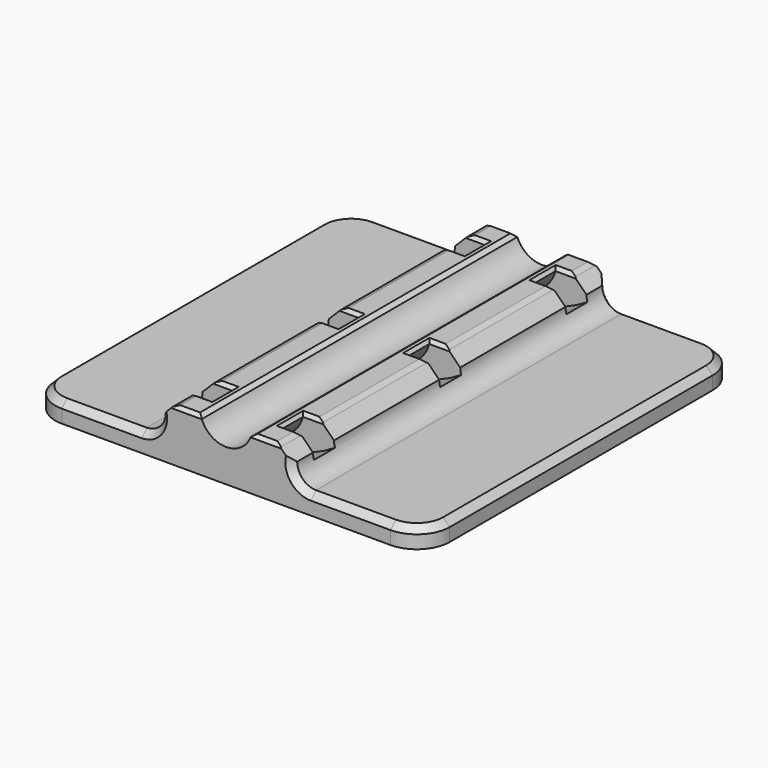
from build123d import *

# Parameters (mm, degrees)
PAD_DEPTH              = 30
SKETCH001_R            = 19
SKETCH001_R_2          = 5.5
POCKET_DEPTH           = 2
LINEARPATTERN_COUNT    = 2
LINEARPATTERN_PITCH    = 24
LINEARPATTERN001_COUNT = 2
LINEARPATTERN001_PITCH = 24
FILLET_R               = 5
CHAMFER_SIZE           = 0.5
CHAMFER001_SIZE        = 1


with BuildPart() as part:
    # Sketch → Pad (new body, symmetric)
    with BuildSketch(Plane.XZ):
        with BuildLine():
            ThreePointArc((-3.872983, 5), (0, 2), (3.872983, 5))
            Line((3.872983, 5), (7.872983, 5))
            Line((7.872983, 5), (9.994304, 2.87868))
            ThreePointArc((9.994304, 2.87868), (10.837449, 0.843146), (12.872983, 0))
            Line((30, 0), (12.872983, 0))
            Line((30, -3), (30, 0))
            Line((-30, -3), (30, -3))
            Line((-30, 0), (-30, -3))
            Line((-12.872983, 0), (-30, 0))
            ThreePointArc((-12.872983, 0), (-10.837449, 0.843146), (-9.994304, 2.87868))
            Line((-7.872983, 5), (-9.994304, 2.87868))
            Line((-3.872983, 5), (-7.872983, 5))
        make_face()
    extrude(amount=PAD_DEPTH, both=True)

    # Sketch001 → Pocket (cut, symmetric)
    with BuildSketch(Plane.XZ):
        with Locations((0, 18)):
            Circle(SKETCH001_R)
        with Locations((0, 6)):
            Circle(SKETCH001_R_2, mode=Mode.SUBTRACT)
    pocket = extrude(amount=POCKET_DEPTH, both=True, mode=Mode.SUBTRACT)

    # LinearPattern: Pocket ×2
    with Locations(*[(0, -i * LINEARPATTERN_PITCH, 0) for i in range(1, LINEARPATTERN_COUNT)]):
        add(pocket, mode=Mode.SUBTRACT)

    # LinearPattern001: Pocket ×2
    with Locations(*[(0, i * LINEARPATTERN001_PITCH, 0) for i in range(1, LINEARPATTERN001_COUNT)]):
        add(pocket, mode=Mode.SUBTRACT)

    # Fillet
    fillet_edges = [part.edges().sort_by_distance(p)[0] for p in [
        (30, -30, -1.5),
        (30, 30, -1.5),
        (-30, -30, -1.5),
        (-30, 30, -1.5),
    ]]
    fillet(fillet_edges, radius=FILLET_R)

    # Chamfer
    chamfer_edges = [part.edges().sort_by_distance(p)[0] for p in [
        (-5.872983, 30, 5),
        (-7.872983, 28, 5),
        (-6.640655, 26, 5),
        (-5.408327, 24, 5),
        (-6.640655, 22, 5),
        (-7.872983, 12, 5),
        (-6.640655, 2, 5),
        (-5.408327, 0, 5),
        (-6.640655, -2, 5),
        (-7.872983, -12, 5),
        (-6.640655, -22, 5),
        (-5.408327, -24, 5),
        (-6.640655, -26, 5),
        (-7.872983, -28, 5),
        (-5.872983, -30, 5),
        (-3.872983, 0, 5),
        (5.872983, 30, 5),
        (7.872983, 28, 5),
        (6.640655, 26, 5),
        (5.408327, 24, 5),
        (6.640655, 22, 5),
        (7.872983, 12, 5),
        (6.640655, 2, 5),
        (5.408327, 0, 5),
        (6.640655, -2, 5),
        (7.872983, -12, 5),
        (6.640655, -22, 5),
        (5.408327, -24, 5),
        (6.640655, -26, 5),
        (7.872983, -28, 5),
        (5.872983, -30, 5),
        (3.872983, 0, 5),
    ]]
    chamfer(chamfer_edges, length=CHAMFER_SIZE)

    # Chamfer001
    chamfer001_edges = [part.edges().sort_by_distance(p)[0] for p in [
        (18.936492, -30, 0),
        (-18.936492, -30, 0),
    ]]
    chamfer(chamfer001_edges, length=CHAMFER001_SIZE)


solid = part.part
